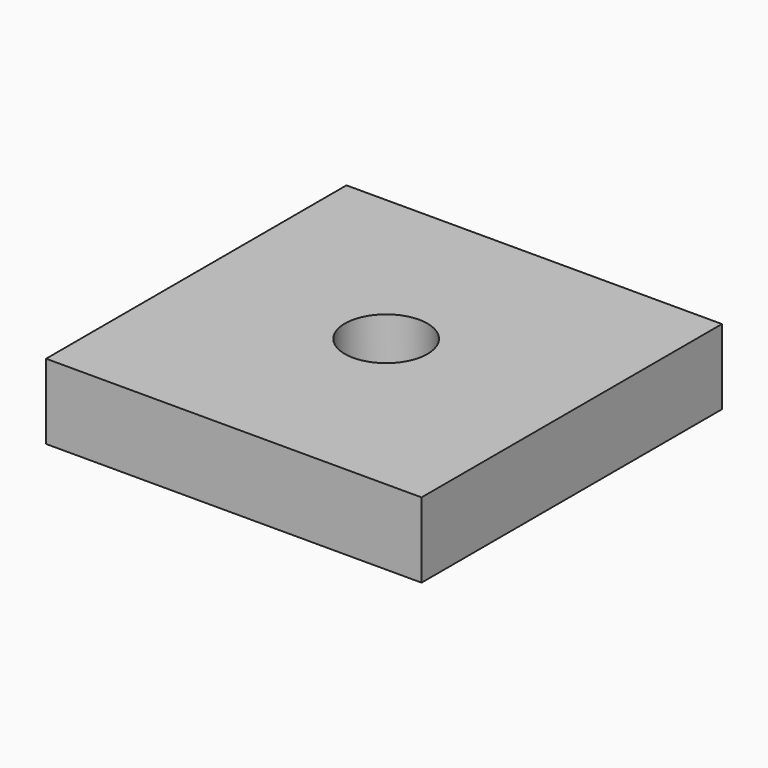
from build123d import *

# Parameters (mm, degrees)
F1_W     = 12.7
F1_H     = 12.7
F2_DEPTH = 2.54
F0_R     = 1.397
F3_DEPTH = 22.7076


with BuildPart() as f2:
    # F1 (on Top) → F2 (new body)
    with BuildSketch(Plane.XY):
        with Locations((0.047929, -0.151867)):
            Rectangle(F1_W, F1_H)
    extrude(amount=F2_DEPTH)

    # F0 (on Top) → F3 (cut)
    with BuildSketch(Plane.XY):
        Circle(F0_R)
    extrude(amount=F3_DEPTH, mode=Mode.SUBTRACT)


solid = f2.part
